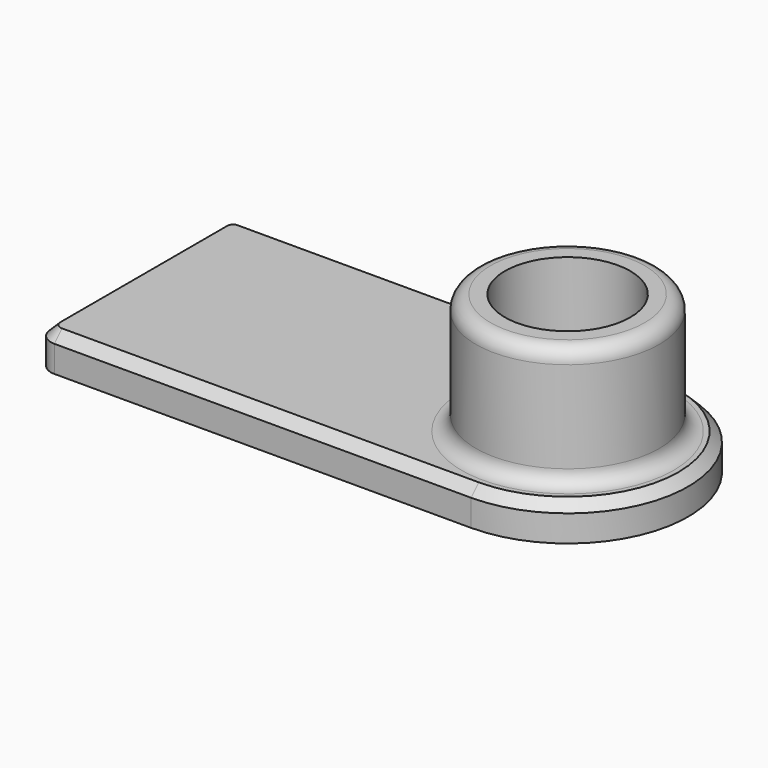
from build123d import *

# Parameters (mm, degrees)
PAD_DEPTH    = 1.5
SKETCH001_R  = 3.8
PAD001_DEPTH = 5
SKETCH002_R  = 2.6
POCKET_DEPTH = 5.5
FILLET_R     = 0.6
CHAMFER_SIZE = 0.4


with BuildPart() as part:
    # Sketch → Pad (new body)
    with BuildSketch(Plane.XY):
        with BuildLine():
            Line((0.715008, 0), (18, 0))
            ThreePointArc((18, 0), (23.000017, 5), (18, 10))
            Line((18, 10), (0.631198, 10))
            ThreePointArc((0.631198, 10), (0.184874, 9.815126), (0, 9.368802))
            Line((0, 9.368802), (0, 0.715008))
            ThreePointArc((0, 0.715008), (0.209421, 0.209421), (0.715008, 0))
        make_face()
    extrude(amount=PAD_DEPTH)

    # Sketch001 (on Face8 of Pad) → Pad001 (join)
    with BuildSketch(Plane.XY.offset(1.5)):
        with Locations((18, 5)):
            Circle(SKETCH001_R)
    extrude(amount=PAD001_DEPTH)

    # Sketch002 → Pocket (cut)
    with BuildSketch(Plane.XY.offset(6.5)):
        with Locations((18, 5)):
            Circle(SKETCH002_R)
    extrude(amount=-POCKET_DEPTH, mode=Mode.SUBTRACT)

    # Fillet
    fillet_edges = [part.edges().sort_by_distance(p)[0] for p in [
        (21.8, 5, 4),
        (14.2, 5, 1.5),
        (14.2, 5, 6.5),
    ]]
    fillet(fillet_edges, radius=FILLET_R)

    # Chamfer
    chamfer_edges = [part.edges().sort_by_distance(p)[0] for p in [
        (13.6, 5, 1.5),
        (9.357504, 0, 1.5),
        (0.209421, 0.209421, 1.5),
        (23.000017, 5, 1.5),
        (0, 5.041905, 1.5),
        (9.315599, 10, 1.5),
        (0.184874, 9.815126, 1.5),
    ]]
    chamfer(chamfer_edges, length=CHAMFER_SIZE)


solid = part.part
